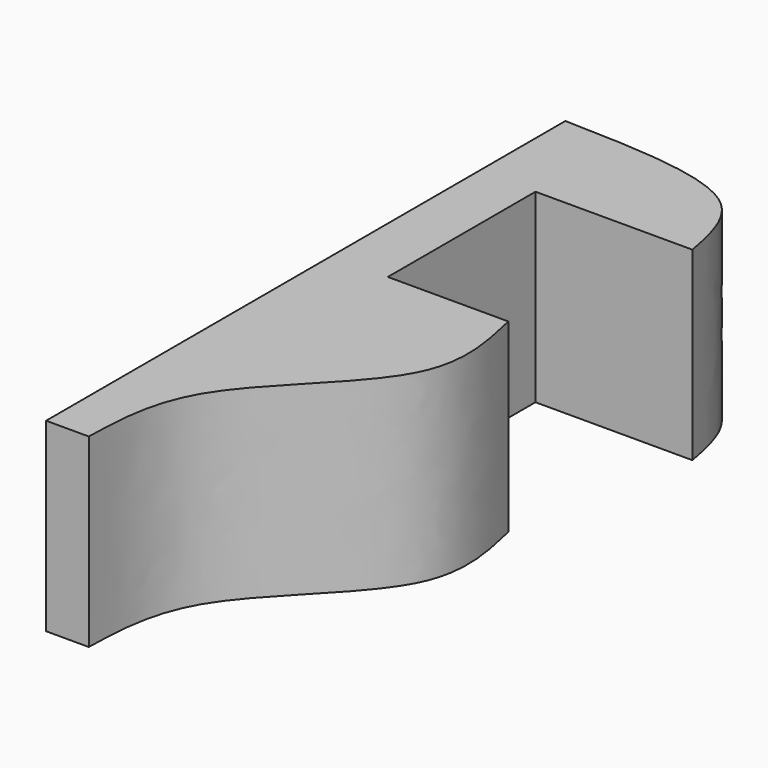
from build123d import *

# Parameters (mm, degrees)
F1_DEPTH = 63.9332607388


with BuildPart() as f1:
    # F0 (on Top) → F1 (new body)
    with BuildSketch(Plane.XY):
        with BuildLine():
            add(Edge.make_bspline(
                [(0, 124.9946206808), (24.8301394318, 124.3622780324), (66.7260326214, 123.295321072), (71.6255786908, 98.0387967509), (73.6213475466, 87.7508744597)],
                knots=[0, 0, 0, 0, 0.5926629473, 1, 1, 1, 1], degree=3))
            Line((0, 124.9946206808), (0, -98.9009141922))
            Line((0, -98.9009141922), (14.7242695093, -98.9009141922))
            add(Edge.make_bspline(
                [(61.0624104738, 24.090051651), (63.9006109002, 11.5958938349), (70.3328699343, -16.7198091911), (15.9014298374, -56.2508950422), (15.0902251847, -85.641575757), (14.7242695093, -98.9009141922)],
                knots=[0, 0, 0, 0, 0.3023726, 0.685271816, 1, 1, 1, 1], degree=3))
            Line((61.0624104738, 24.090051651), (19.4880068302, 24.090051651))
            Line((19.4880068302, 24.090051651), (19.4880068302, 87.7508744597))
            Line((19.4880068302, 87.7508744597), (73.6213475466, 87.7508744597))
        make_face()
    extrude(amount=F1_DEPTH)


solid = f1.part
